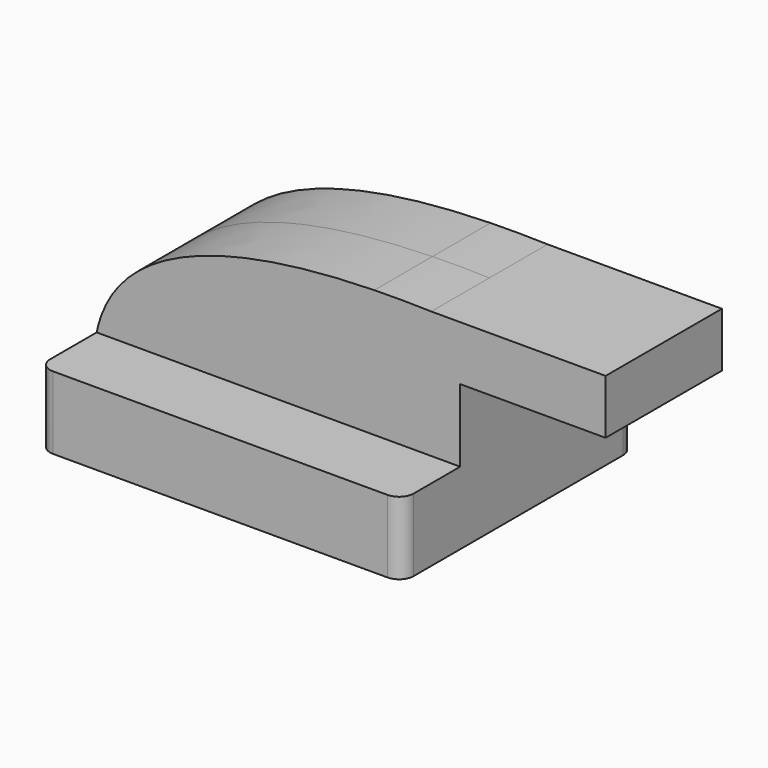
from build123d import *

# Parameters (mm, degrees)
F1_DEPTH      = 50.8
F1_DEPTH_BACK = 50.8
F2_R          = 5.08
F0_W          = 25.4
F0_H          = 25.4
F3_DEPTH      = 25.4
F3_DEPTH_BACK = 25.4


with BuildPart() as f1:
    # F0 (on Front) → F1 (new body, two sides)
    with BuildSketch(Plane.XZ) as f1_sk:
        Polygon((-65.414091, 25.4), (-65.414091, 0), (61.585909, 0), (61.585909, 25.4), (36.185909, 25.4), (-8.589925, 25.4), align=None)
    extrude(amount=F1_DEPTH)
    extrude(f1_sk.sketch, amount=-F1_DEPTH_BACK)

    # F2
    f2_edges = [f1.edges().sort_by_distance(p)[0] for p in [
        (61.585909, -50.8, 12.7),
        (61.585909, 50.8, 12.7),
        (-65.414091, 50.8, 12.7),
        (-65.414091, -50.8, 12.7),
    ]]
    fillet(f2_edges, radius=F2_R)

    # F0 (on Front) → F3 (join, two sides)
    with BuildSketch(Plane.XZ) as f3_sk:
        Polygon((-65.414091, 25.4), (-65.414091, 0), (61.585909, 0), (61.585909, 25.4), (36.185909, 25.4), (-8.589925, 25.4), align=None)
        with BuildLine():
            add(Edge.make_bspline(
                [(31.575521, 69.937845), (-10.358958, 69.028149), (-58.26536, 60.43693), (-65.414091, 25.4)],
                knots=[17.572505, 17.572505, 17.572505, 17.572505, 125.043548, 125.043548, 125.043548, 125.043548], degree=3))
            Line((-65.414091, 25.4), (-8.589925, 25.4))
            ThreePointArc((-8.589925, 25.4), (2.934524, 55.387008), (31.575521, 69.937845))
        make_face()
        with Locations((48.885909, 38.1)):
            Rectangle(F0_W, F0_H)
        with BuildLine():
            ThreePointArc((31.575521, 69.937845), (2.934524, 55.387008), (-8.589925, 25.4))
            Line((-8.589925, 25.4), (36.185909, 25.4))
            Line((36.185909, 25.4), (36.185909, 50.8))
            Line((36.185909, 50.8), (36.185909, 69.85))
            Line((36.185909, 69.85), (51.462281, 69.85))
            add(Edge.make_bspline(
                [(51.462281, 69.85), (45.129207, 70.029965), (38.432194, 70.086589), (31.575521, 69.937845)],
                knots=[0, 0, 0, 0, 17.572505, 17.572505, 17.572505, 17.572505], degree=3))
        make_face()
        Polygon((36.185909, 50.8), (61.585909, 50.8), (112.385909, 50.8), (112.385909, 69.85), (51.462281, 69.85), (36.185909, 69.85), align=None)
    extrude(amount=F3_DEPTH)
    extrude(f3_sk.sketch, amount=-F3_DEPTH_BACK)


solid = f1.part
